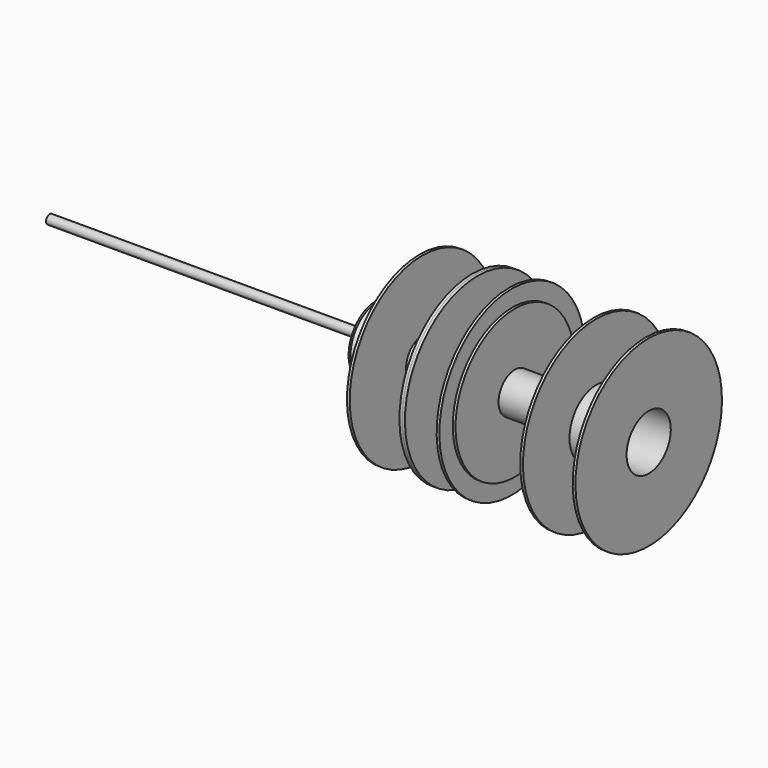
from build123d import *

# Parameters (mm, degrees)
F11_R     = 5
F12_DEPTH = 356


with BuildPart() as f1:
    # F0 (on Front) → F1 (revolve)
    with BuildSketch(Plane.XZ):
        Polygon((-27.1625, 99.21875), (-30.1625, 99.21875), (-30.1625, 15.875), (30.1625, 15.875), (30.1625, 99.21875), (27.1625, 99.21875), (27.1625, 22.225), (-27.1625, 22.225), align=None)
    revolve(axis=Axis((0, 0, 0), (1, 0, 0)))


with BuildPart() as f3:
    # F2 (on Front) → F3 (revolve)
    with BuildSketch(Plane.XZ):
        Polygon((33.1625, 99.21875), (30.1625, 99.21875), (30.1625, 26.9875), (70.8025, 26.9875), (70.8025, 99.21875), (67.8025, 99.21875), (67.8025, 33.3375), (33.1625, 33.3375), align=None)
    revolve(axis=Axis((50.4825, 0, 0), (1, 0, 0)))


with BuildPart() as f5:
    # F4 (on Front) → F5 (revolve)
    with BuildSketch(Plane.XZ):
        Polygon((73.8025, 80.9625), (70.8025, 80.9625), (70.8025, 15.875), (159.7025, 15.875), (159.7025, 80.9625), (156.7025, 80.9625), (156.7025, 22.225), (73.8025, 22.225), align=None)
    revolve(axis=Axis((115.2525, 0, 0), (1, 0, 0)))


with BuildPart() as f7:
    # F6 (on Front) → F7 (revolve)
    with BuildSketch(Plane.XZ):
        Polygon((162.7025, 100.0125), (159.7025, 100.0125), (159.7025, 30.1625), (220.0275, 30.1625), (220.0275, 100.0125), (217.0275, 100.0125), (217.0275, 36.5125), (162.7025, 36.5125), align=None)
    revolve(axis=Axis((189.865, 0, 0), (1, 0, 0)))


with BuildPart() as f9:
    # F8 (on Top) → F9 (revolve)
    with BuildSketch(Plane.XY):
        Polygon((-75.1625, 12.5), (-80.1625, 12.5), (-80.1625, 7.5), (-75.1625, 7.5), (-75.1625, 10), align=None)
    revolve(axis=Axis((-55.1625, 2.5, 0), (-1, 0, 0)))


with BuildPart() as f10:
    # F8 (on Top) → F10 (revolve)
    with BuildSketch(Plane.XY):
        Polygon((-78.1625, 39.515), (-80.1625, 39.515), (-80.1625, 12.5), (-75.1625, 12.5), (-75.1625, 10), (-35.1625, 10), (-35.1625, 12.5), (-30.1625, 12.5), (-30.1625, 15.875), align=None)
    revolve(axis=Axis((-55.1625, 2.5, 0), (-1, 0, 0)))


with BuildPart() as f12:
    # F11 (on face) → F12 (new body)
    with BuildSketch(Plane(origin=(-80.1625, 0, 0), x_dir=(0, -1, 0), z_dir=(-1, 0, 0))):
        with Locations((-2.5, 0)):
            Circle(F11_R)
    extrude(amount=F12_DEPTH)


solid = Compound([f1.part, f3.part, f5.part, f7.part, f9.part, f10.part, f12.part])
